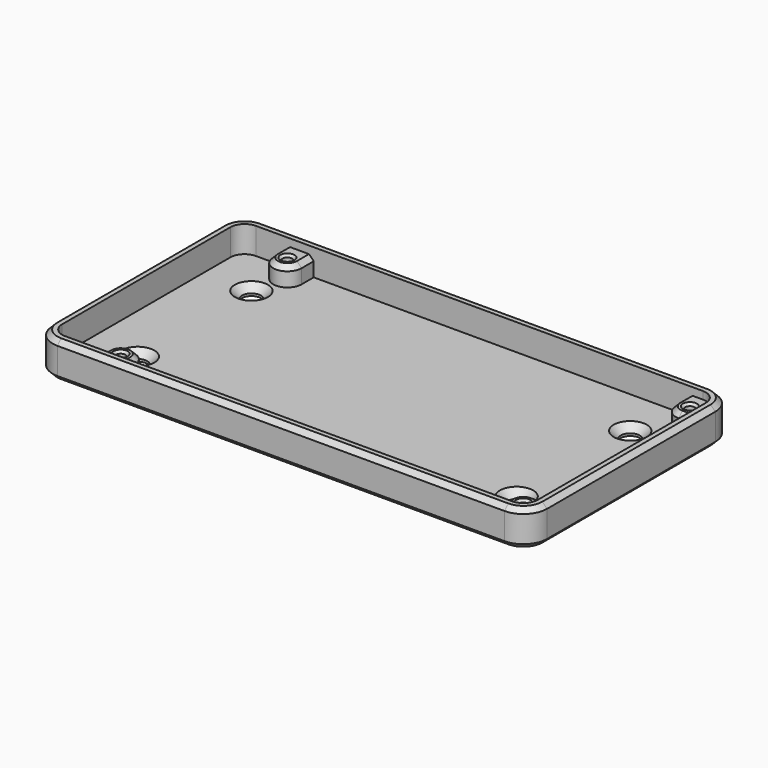
from build123d import *

# Parameters (mm, degrees)
PAD_DEPTH                  = 7.6
PAD_MIRRORED_2_DEPTH       = 7.6
PAD001_DEPTH               = 2
PAD001_MIRRORED002_2_DEPTH = 2
SKETCH002_R                = 1
PAD002_DEPTH               = 4
SKETCH003_R                = 2
POCKET073_DEPTH            = 5
CHAMFER035_SIZE            = 1
CHAMFER036_SIZE            = 1
CHAMFER037_SIZE            = 0.5
CHAMFER038_SIZE            = 1.5


with BuildPart() as part:
    # Sketch → Pad (new body)
    with BuildSketch(Plane.XY):
        with BuildLine():
            ThreePointArc((-47.2, 25.2), (-49.32132, 24.32132), (-50.2, 22.2))
            Line((-50.2, 22.2), (-50.2, 0))
            Line((-52.2, 0), (-50.2, 0))
            Line((-52.2, 22.2), (-52.2, 0))
            ThreePointArc((-47.2, 27.2), (-50.735534, 25.735534), (-52.2, 22.2))
            Line((-47.2, 27.2), (0, 27.2))
            Line((0, 27.2), (0, 25.2))
            Line((-47.2, 25.2), (0, 25.2))
        make_face()
    pad = extrude(amount=PAD_DEPTH)

    # Sketch Mirrored 2 → Pad Mirrored 2 (add)
    with BuildSketch(Plane(origin=(0, 0, 0), x_dir=(-1, 0, 0), z_dir=(0, 0, -1))):
        with BuildLine():
            ThreePointArc((-47.2, 25.2), (-49.32132, 24.32132), (-50.2, 22.2))
            Line((-50.2, 22.2), (-50.2, 0))
            Line((-52.2, 0), (-50.2, 0))
            Line((-52.2, 22.2), (-52.2, 0))
            ThreePointArc((-47.2, 27.2), (-50.735534, 25.735534), (-52.2, 22.2))
            Line((-47.2, 27.2), (0, 27.2))
            Line((0, 27.2), (0, 25.2))
            Line((-47.2, 25.2), (0, 25.2))
        make_face()
    pad_mirrored_2 = extrude(amount=-PAD_MIRRORED_2_DEPTH)

    # Mirrored001: Pad, Pad Mirrored 2 across Sketch H_Axis
    add(pad.mirror(Plane.ZX))
    add(pad_mirrored_2.mirror(Plane.ZX))

    # Sketch001 → Pad001 (join)
    with BuildSketch(Plane.XY):
        with BuildLine():
            ThreePointArc((-47.2, 25.2), (-49.32132, 24.32132), (-50.2, 22.2))
            Line((-50.2, 22.2), (-50.2, 0))
            Line((-50.2, 0), (0, 0))
            Line((0, 0), (0, 25.2))
            Line((-47.2, 25.2), (0, 25.2))
        make_face()
    pad001 = extrude(amount=PAD001_DEPTH)

    # Sketch001 Mirrored002 2 → Pad001 Mirrored002 2 (add)
    with BuildSketch(Plane(origin=(0, 0, 0), x_dir=(-1, 0, 0), z_dir=(0, 0, -1))):
        with BuildLine():
            ThreePointArc((-47.2, 25.2), (-49.32132, 24.32132), (-50.2, 22.2))
            Line((-50.2, 22.2), (-50.2, 0))
            Line((-50.2, 0), (0, 0))
            Line((0, 0), (0, 25.2))
            Line((-47.2, 25.2), (0, 25.2))
        make_face()
    pad001_mirrored002_2 = extrude(amount=-PAD001_MIRRORED002_2_DEPTH)

    # Mirrored003: Pad001, Pad001 Mirrored002 2 across Sketch001 H_Axis
    add(pad001.mirror(Plane.ZX))
    add(pad001_mirrored002_2.mirror(Plane.ZX))

    # Sketch002 (on Face19 of MultiTransform001) → Pad002 (join)
    with BuildSketch(Plane.XY.offset(2)):
        with BuildLine():
            ThreePointArc((50.2, 22.2), (49.32132, 24.32132), (47.2, 25.2))
            Line((47.2, 25.2), (44, 25.2))
            Line((44, 22), (44, 25.2))
            ThreePointArc((44, 22), (44.87868, 19.87868), (47, 19))
            Line((47, 19), (50.2, 19))
            Line((50.2, 22.2), (50.2, 19))
        make_face()
        with Locations((47, 22)):
            Circle(SKETCH002_R, mode=Mode.SUBTRACT)
        with BuildLine():
            ThreePointArc((-41, 22), (-38, 19), (-35, 22))
            Line((-35, 22), (-35, 25.2))
            Line((-41, 25.2), (-35, 25.2))
            Line((-41, 22), (-41, 25.2))
        make_face()
        with Locations((-38, 22)):
            Circle(SKETCH002_R, mode=Mode.SUBTRACT)
    pad002 = extrude(amount=PAD002_DEPTH)

    # Mirrored004: Pad002 across Sketch002 H_Axis
    add(pad002.mirror(Plane(origin=(0, 0, 2), x_dir=(0, 0, 1), z_dir=(0, 1, 0))))

    # Sketch003 (on DatumPlane) → Pocket073 (cut)
    with BuildSketch(Plane.XY.offset(2)):
        with Locations((-40, 15)):
            Circle(SKETCH003_R)
        with Locations((40, 15)):
            Circle(SKETCH003_R)
        with Locations((40, -15)):
            Circle(SKETCH003_R)
        with Locations((-40, -15)):
            Circle(SKETCH003_R)
    extrude(amount=-POCKET073_DEPTH, mode=Mode.SUBTRACT)

    # Chamfer035
    chamfer035_edges = [part.edges().sort_by_distance(p)[0] for p in [
        (-35, 23.6, 6),
        (-35, -23.6, 6),
        (48.6, 19, 6),
        (48.6, -19, 6),
    ]]
    chamfer(chamfer035_edges, length=CHAMFER035_SIZE)

    # Chamfer036
    chamfer036_edges = [part.edges().sort_by_distance(p)[0] for p in [
        (0, -27.2, 7.6),
        (0, -27.2, 0),
    ]]
    chamfer(chamfer036_edges, length=CHAMFER036_SIZE)

    # Chamfer037
    chamfer037_edges = [part.edges().sort_by_distance(p)[0] for p in [
        (-39, 22, 6),
        (-39, -22, 6),
        (46, -22, 6),
        (46, 22, 6),
    ]]
    chamfer(chamfer037_edges, length=CHAMFER037_SIZE)

    # Chamfer038
    chamfer038_edges = [part.edges().sort_by_distance(p)[0] for p in [
        (-42, 15, 2),
        (38, 15, 2),
        (38, -15, 2),
        (-42, -15, 2),
    ]]
    chamfer(chamfer038_edges, length=CHAMFER038_SIZE)


solid = part.part
